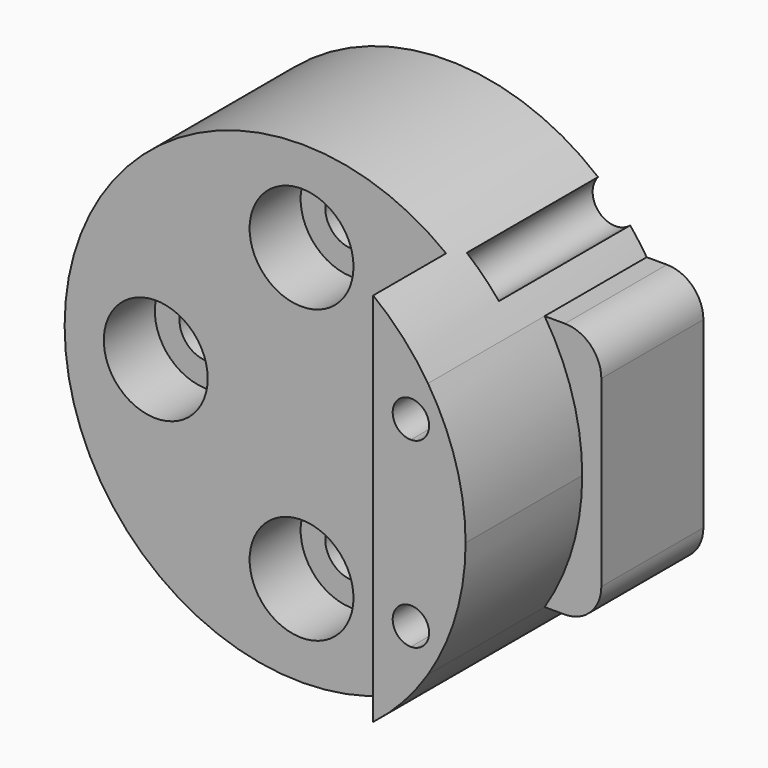
from build123d import *

# Parameters (mm, degrees)
F0_R      = 1.5
F1_DEPTH  = 15
F4_DEPTH  = 15
F5_R      = 2
F6_DEPTH  = 5
F7_R      = 2.85
F8_DEPTH  = 8.5
F9_R      = 2
F10_R     = 1.25
F11_DEPTH = 9
F13_DEPTH = 8
F14_R     = 2.85
F15_DEPTH = 5


with BuildPart() as f1:
    # F0 (on Front) → F1 (new body)
    with BuildSketch(Plane.XZ):
        with BuildLine():
            ThreePointArc((10.9369710195, -7.0272800513), (12.473584554, -3.6619241354), (13, 0))
            ThreePointArc((13, 0), (12.473584554, 3.6619241354), (10.9369710195, 7.0272800513))
            Line((10.9369710195, 7.0272800513), (10.9369710195, -7.0272800513))
        make_face()
        with BuildLine():
            ThreePointArc((10.9369710195, 7.0272800513), (12.473584554, 3.6619241354), (13, 0))
            ThreePointArc((13, 0), (12.473584554, -3.6619241354), (10.9369710195, -7.0272800513))
            Line((10.9369710195, -7.0272800513), (14.0475723892, -7.0272800513))
            Line((14.0475723892, -7.0272800513), (14.0475723892, 7.0272800513))
            Line((14.0475723892, 7.0272800513), (10.9369710195, 7.0272800513))
        make_face()
        with BuildLine():
            Line((10.9369710195, -7.0272800513), (10.9369710195, 7.0272800513))
            ThreePointArc((10.9369710195, 7.0272800513), (-13, 0), (10.9369710195, -7.0272800513))
        make_face()
        with Locations((0, -8)):
            Circle(F0_R, mode=Mode.SUBTRACT)
        with Locations((-8, 0)):
            Circle(F0_R, mode=Mode.SUBTRACT)
        with Locations((0, 8)):
            Circle(F0_R, mode=Mode.SUBTRACT)
    extrude(amount=F1_DEPTH)

    # F3 (on face) → F4 (cut)
    with BuildSketch(Plane.XZ.offset(15)):
        with BuildLine():
            ThreePointArc((11, 5), (10.7071067812, 5.7071067812), (10, 6))
            Line((10, 6), (10, 4))
            ThreePointArc((10, 4), (10.7071067812, 4.2928932188), (11, 5))
        make_face()
        with BuildLine():
            ThreePointArc((11, -5), (10.7071067812, -4.2928932188), (10, -4))
            Line((10, -4), (10, -6))
            ThreePointArc((10, -6), (10.7071067812, -5.7071067812), (11, -5))
        make_face()
        with BuildLine():
            Line((10, -6), (10, -4))
            ThreePointArc((10, -4), (9, -5), (10, -6))
        make_face()
        with BuildLine():
            Line((10, 4), (10, 6))
            ThreePointArc((10, 6), (9, 5), (10, 4))
        make_face()
    extrude(amount=-F4_DEPTH, mode=Mode.SUBTRACT)

    # F5 (on face) → F6 (cut)
    with BuildSketch(Plane.XZ):
        with Locations((10, 5)):
            Circle(F5_R)
        with Locations((10, -5)):
            Circle(F5_R)
    extrude(amount=F6_DEPTH, mode=Mode.SUBTRACT)

    # F7 (on face) → F8 (cut)
    with BuildSketch(Plane.XZ.offset(15)):
        with Locations((0, 8)):
            Circle(F7_R)
        with Locations((0, -8)):
            Circle(F7_R)
        with Locations((-8, 0)):
            Circle(F7_R)
    extrude(amount=-F8_DEPTH, mode=Mode.SUBTRACT)

    # F9
    f9_edges = [f1.edges().sort_by_distance(p)[0] for p in [
        (14.047572, -7.5, 7.02728),
        (14.047572, -7.5, -7.02728),
    ]]
    fillet(f9_edges, radius=F9_R)

    # F10 (on face) → F11 (cut)
    with BuildSketch(Plane.XZ):
        with Locations((9.2203840613, 9.2203840613)):
            Circle(F10_R)
    extrude(amount=F11_DEPTH, mode=Mode.SUBTRACT)

    # F12 (on face) → F13 (cut)
    with BuildSketch(Plane.XZ.offset(15)):
        with BuildLine():
            ThreePointArc((10.9369710195, 7.0272800513), (12.473584554, 3.6619241354), (13, 0))
            ThreePointArc((13, 0), (12.473584554, -3.6619241354), (10.9369710195, -7.0272800513))
            Line((10.9369710195, -7.0272800513), (12.0475723892, -7.0272800513))
            ThreePointArc((12.0475723892, -7.0272800513), (13.4617859516, -6.4414936136), (14.0475723892, -5.0272800513))
            Line((14.0475723892, -5.0272800513), (14.0475723892, 5.0272800513))
            ThreePointArc((14.0475723892, 5.0272800513), (13.4617859516, 6.4414936136), (12.0475723892, 7.0272800513))
            Line((12.0475723892, 7.0272800513), (10.9369710195, 7.0272800513))
        make_face()
    extrude(amount=-F13_DEPTH, mode=Mode.SUBTRACT)

    # F14 (on face) → F15 (cut)
    with BuildSketch(Plane.XZ.offset(15)):
        with BuildLine():
            Line((7.9317564177, -10.2998660248), (7.9317564177, 10.2998660248))
            ThreePointArc((7.9317564177, 10.2998660248), (-13, 0), (7.9317564177, -10.2998660248))
        make_face()
        with Locations((0, -8)):
            Circle(F14_R, mode=Mode.SUBTRACT)
        with Locations((-8, 0)):
            Circle(F14_R, mode=Mode.SUBTRACT)
        with Locations((0, 8)):
            Circle(F14_R, mode=Mode.SUBTRACT)
    extrude(amount=-F15_DEPTH, mode=Mode.SUBTRACT)


solid = f1.part
